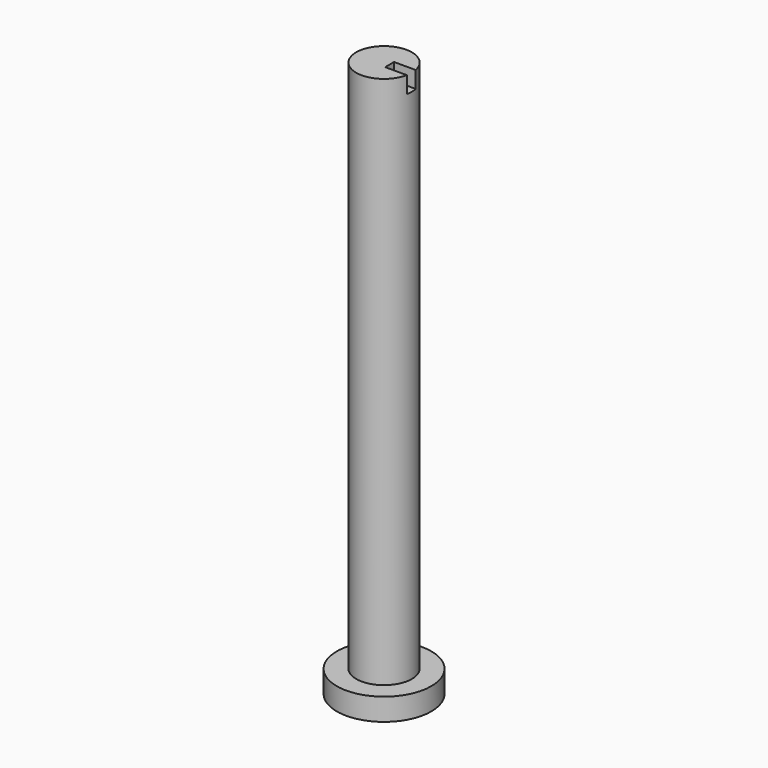
from build123d import *

# Parameters (mm, degrees)
F0_R     = 8.5
F1_DEPTH = 4
F2_R     = 5
F3_DEPTH = 100
F5_DEPTH = 3


with BuildPart() as f1:
    # F0 (on Top) → F1 (new body)
    with BuildSketch(Plane.XY):
        Circle(F0_R)
    extrude(amount=F1_DEPTH)

    # F2 (on Top) → F3 (join)
    with BuildSketch(Plane.XY):
        Circle(F2_R)
    extrude(amount=F3_DEPTH)

    # F4 (on face) → F5 (cut)
    with BuildSketch(Plane.XY.offset(100)):
        with BuildLine():
            Line((4.8989794856, 1), (1, 1))
            Line((1, 1), (1, -1))
            Line((1, -1), (4.8989794856, -1))
            ThreePointArc((4.8989794856, -1), (4.974680765, -0.50254481), (5, 0))
            ThreePointArc((5, 0), (4.974680765, 0.50254481), (4.8989794856, 1))
        make_face()
    extrude(amount=-F5_DEPTH, mode=Mode.SUBTRACT)


solid = f1.part
